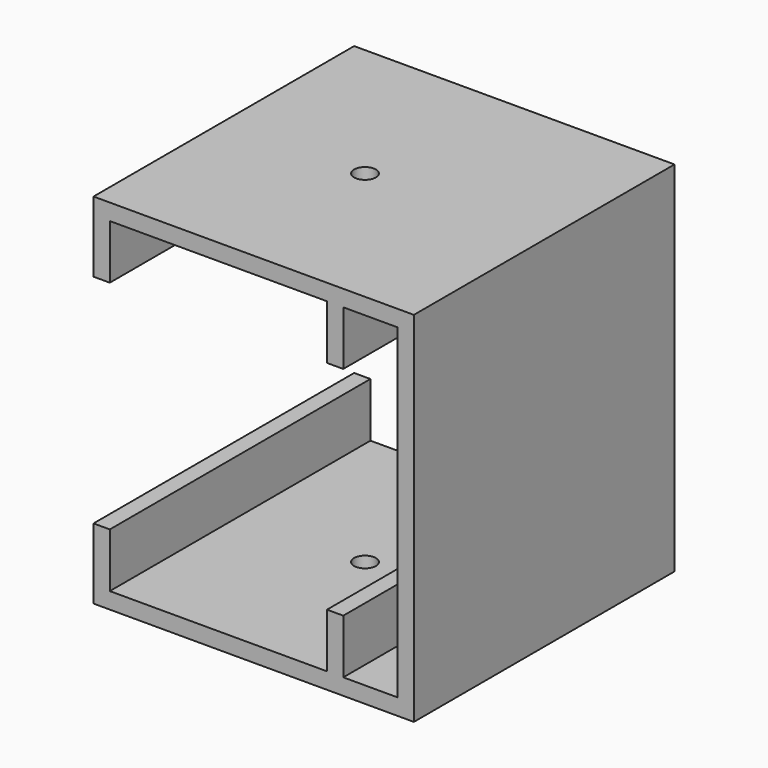
from build123d import *

# Parameters (mm, degrees)
F1_DEPTH = 76.2
F3_DEPTH = 101.6


with BuildPart() as f1:
    # F0 (on Front) → F1 (new body)
    with BuildSketch(Plane.XZ):
        Polygon((54.61, 16.51), (54.61, 3.81), (3.81, 3.81), (3.81, 16.51), (0, 16.51), (0, 0), (74.93, 0), (74.93, 83.82), (0, 83.82), (0, 67.31), (3.81, 67.31), (3.81, 80.01), (54.61, 80.01), (54.61, 67.31), (58.42, 67.31), (58.42, 80.01), (71.12, 80.01), (71.12, 3.81), (58.42, 3.81), (58.42, 16.51), align=None)
    extrude(amount=F1_DEPTH)

    # F2 (on face) → F3 (cut)
    with BuildSketch(Plane.XY.offset(83.82)):
        with BuildLine():
            ThreePointArc((30.48, -38.1), (33.02, -40.64), (35.56, -38.1))
            ThreePointArc((35.56, -38.1), (33.02, -35.56), (30.48, -38.1))
        make_face()
    extrude(amount=-F3_DEPTH, mode=Mode.SUBTRACT)


solid = f1.part
